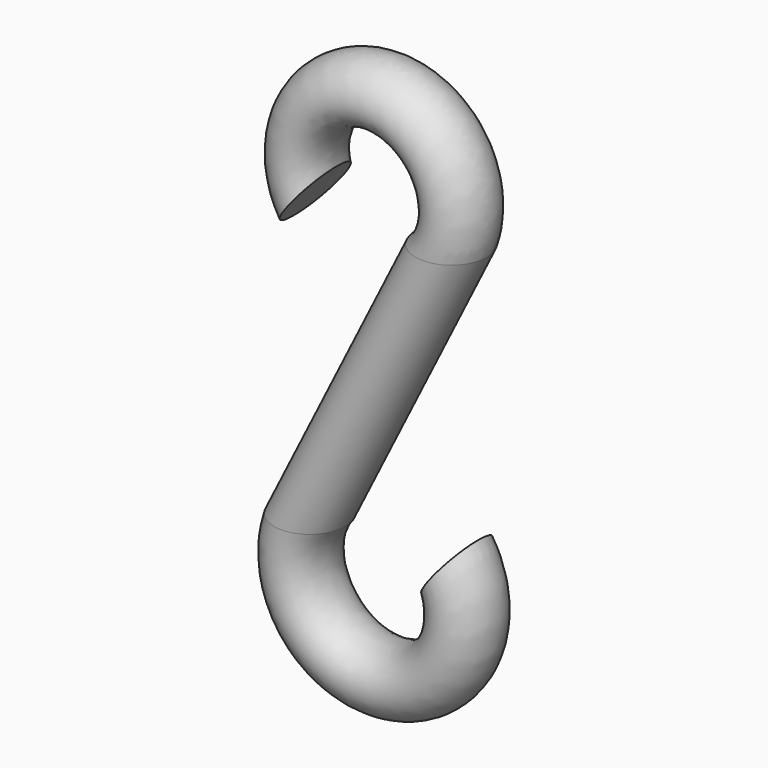
from build123d import *

# Parameters (mm, degrees)
F1_R = 4.502181


with BuildPart() as f2:
    # F2: sweep along a path in F0
    with BuildLine(Plane.XZ) as f2_path:
        ThreePointArc((8.944272, -9.75025), (0, -24.222386), (-8.944272, -9.75025))
        Line((-8.944272, -9.75025), (8.944272, 26.026837))
        ThreePointArc((8.944272, 26.026837), (0, 40.498973), (-8.944272, 26.026837))
    # F1 (on Top) → F2 (sweep)
    with BuildSketch(Plane.XY):
        with Locations((-4.502181, 0)):
            Circle(F1_R)
    sweep(path=f2_path.line)


solid = f2.part
